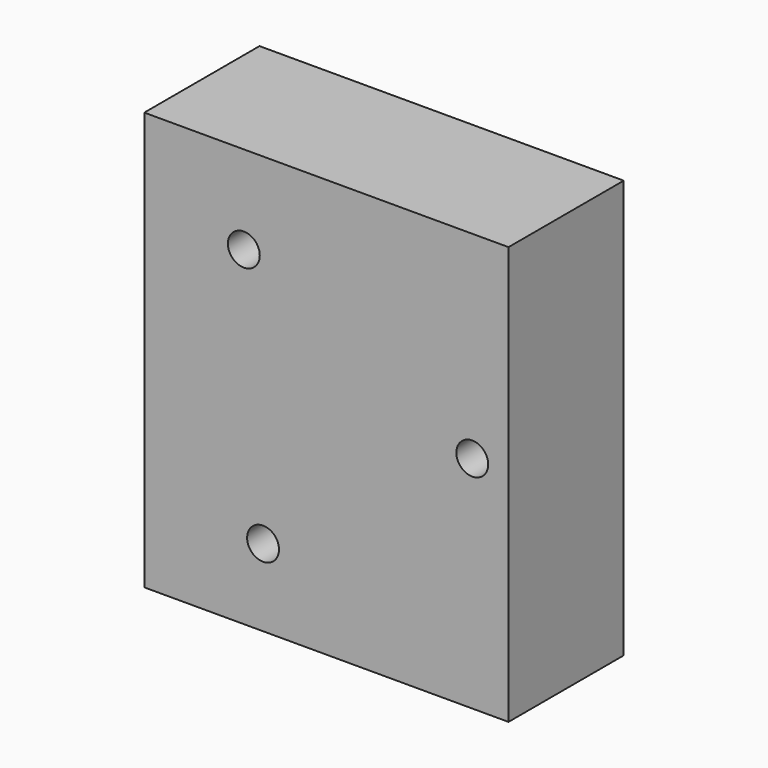
from build123d import *

# Parameters (mm, degrees)
F0_W     = 64.233227
F0_H     = 73.710262
F1_DEPTH = 12.7
F4_R     = 2.809769
F5_DEPTH = 25.401


with BuildPart() as f1:
    # F0 (on Front) → F1 (new body, symmetric)
    with BuildSketch(Plane.XZ):
        with Locations((-36.223331, 47.385171)):
            Rectangle(F0_W, F0_H)
    extrude(amount=F1_DEPTH, both=True)

    # F4 (on face) → F5 (cut, through all)
    with BuildSketch(Plane.XZ.offset(12.7)):
        with Locations((-50.782669, 68.68615)):
            Circle(F4_R)
        with Locations((-47.39085, 24.125924)):
            Circle(F4_R)
        with Locations((-10.496472, 49.343439)):
            Circle(F4_R)
    extrude(amount=-F5_DEPTH, mode=Mode.SUBTRACT)


solid = f1.part
